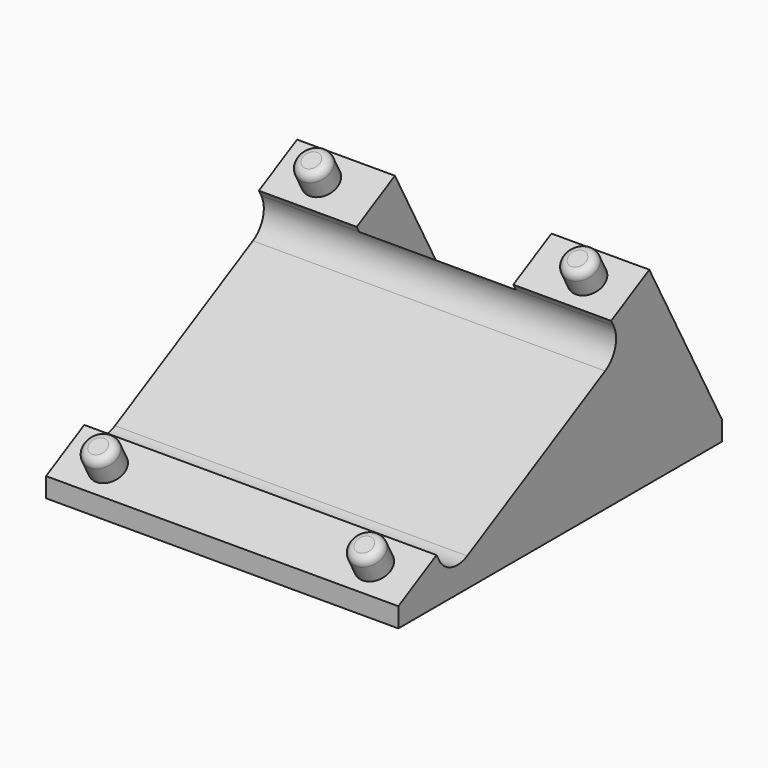
from build123d import *

# Parameters (mm, degrees)
F0_W      = 27
F0_H      = 31
F1_DEPTH  = 1.5
F3_DEPTH  = 27
F4_W      = 27
F4_H      = 19
F5_DEPTH  = 2.5
F6_R      = 2
F7_W      = 12
F7_H      = 4.15
F8_DEPTH  = 25
F9_R      = 1.25
F10_DEPTH = 2
F11_R     = 0.6


with BuildPart() as f1:
    # F0 (on Top) → F1 (new body)
    with BuildSketch(Plane.XY):
        with Locations((-3.0333630769, 4.2747315317)):
            Rectangle(F0_W, F0_H)
    extrude(amount=F1_DEPTH)

    # F2 (on face) → F3 (join)
    with BuildSketch(Plane(origin=(-16.5333630769, 0, 0), x_dir=(0, -1, 0), z_dir=(-1, 0, 0))):
        Polygon((-19.7747315317, 1.5), (11.2252684683, 1.5), (-12.816344435, 14.434096374), align=None)
    extrude(amount=-F3_DEPTH)

    # F4 (on face) → F5 (cut)
    with BuildSketch(Plane(origin=(0, -3.1455131558, 5.846810437), x_dir=(1, 0, 0), z_dir=(0, -0.473776424, 0.8806451613))):
        with Locations((-3.0333630769, 4.4751862752)):
            Rectangle(F4_W, F4_H)
    extrude(amount=-F5_DEPTH, mode=Mode.SUBTRACT)

    # F6
    f6_edges = [f1.edges().sort_by_distance(p)[0] for p in [
        (-3.033363, 10.346108, 10.266311),
        (-3.033363, -6.38615, 1.264559),
    ]]
    fillet(f6_edges, radius=F6_R)

    # F7 (on face) → F8 (cut)
    with BuildSketch(Plane(origin=(0, -3.1455131558, 5.846810437), x_dir=(1, 0, 0), z_dir=(0, -0.473776424, 0.8806451613))):
        with Locations((-3.0333630769, 16.0501862752)):
            Rectangle(F7_W, F7_H)
    extrude(amount=-F8_DEPTH, mode=Mode.SUBTRACT)

    # F9 (on face) → F10 (join)
    with BuildSketch(Plane(origin=(0, -3.1455131558, 5.846810437), x_dir=(1, 0, 0), z_dir=(0, -0.473776424, 0.8806451613))):
        with Locations((-13.2333630769, 16.0751862752)):
            Circle(F9_R)
        with Locations((7.1666369231, 16.0751862752)):
            Circle(F9_R)
        with Locations((-13.2333630769, -7.1248137248)):
            Circle(F9_R)
        with Locations((7.1666369231, -7.1248137248)):
            Circle(F9_R)
    extrude(amount=F10_DEPTH)

    # F11
    f11_edges = [f1.edges().sort_by_distance(p)[0] for p in [
        (-14.483363, -10.367499, 4.232532),
        (5.916637, -10.367499, 4.232532),
        (-14.483363, 10.063469, 15.224145),
        (5.916637, 10.063469, 15.224145),
    ]]
    fillet(f11_edges, radius=F11_R)


solid = f1.part
